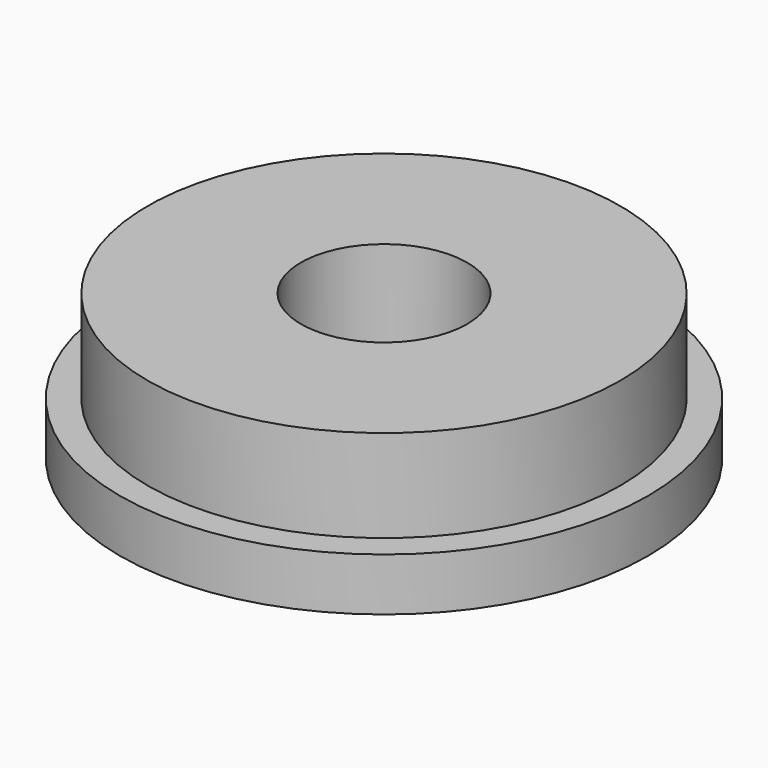
from build123d import *

# Parameters (mm, degrees)
SKETCH_R      = 10
SKETCH_R_2    = 3.15
PAD_DEPTH     = 2
SKETCH001_R   = 8.95
SKETCH001_R_2 = 3.15
PAD001_DEPTH  = 5.5


with BuildPart() as part:
    # Sketch → Pad (new body)
    with BuildSketch(Plane.XY):
        Circle(SKETCH_R)
        Circle(SKETCH_R_2, mode=Mode.SUBTRACT)
    extrude(amount=PAD_DEPTH)

    # Sketch001 → Pad001 (join)
    with BuildSketch(Plane.XY):
        Circle(SKETCH001_R)
        Circle(SKETCH001_R_2, mode=Mode.SUBTRACT)
    extrude(amount=PAD001_DEPTH)


solid = part.part
